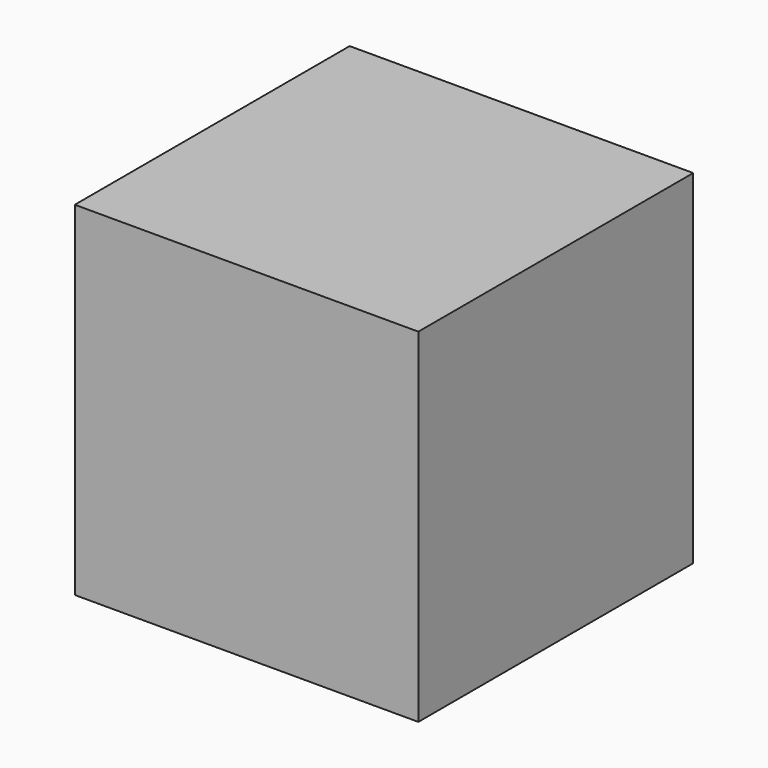
from build123d import *

# Parameters (mm, degrees)
F0_W     = 50.8
F0_H     = 50.8
F1_DEPTH = 50.8
F2_R     = 6.35
F2_R_2   = 1.27
F3_DEPTH = 12.7


with BuildPart() as f1:
    # F0 (on Front) → F1 (new body)
    with BuildSketch(Plane.XZ):
        Rectangle(F0_W, F0_H)
    extrude(amount=F1_DEPTH)

    # F2 (on face) → F3 (join)
    with BuildSketch(Plane(origin=(0, 0, 0), x_dir=(-1, 0, 0), z_dir=(0, 1, 0))):
        Circle(F2_R)
        Circle(F2_R_2, mode=Mode.SUBTRACT)
    extrude(amount=F3_DEPTH)


solid = f1.part
